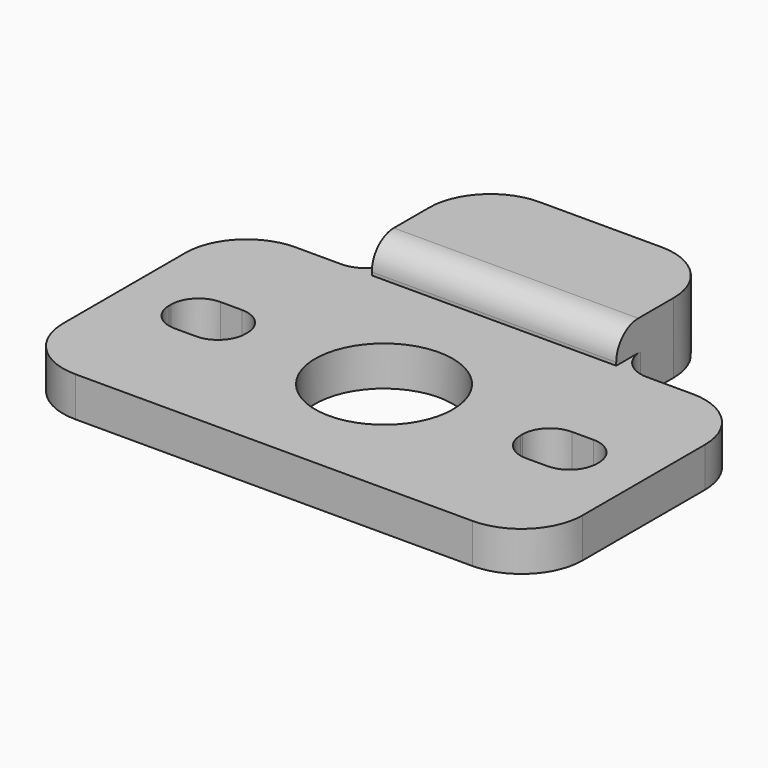
from build123d import *

# Parameters (mm, degrees)
F0_W     = 5
F0_H     = 3.75
F0_R     = 4.5
F1_DEPTH = 2.6
F2_W     = 16
F2_H     = 8.7
F3_DEPTH = 2
F4_R     = 4
F5_R     = 1.8
F6_R     = 2


with BuildPart() as f1:
    # F0 (on Top) → F1 (new body)
    with BuildSketch(Plane.XY):
        Polygon((17, -9), (17, 9), (8, 9), (8, 17.7), (-8, 17.7), (-8, 9), (-17, 9), (-17, -9), align=None)
        with Locations((-11.5, 0)):
            Rectangle(F0_W, F0_H, mode=Mode.SUBTRACT)
        Circle(F0_R, mode=Mode.SUBTRACT)
        with Locations((11.5, 0)):
            Rectangle(F0_W, F0_H, mode=Mode.SUBTRACT)
    extrude(amount=F1_DEPTH)

    # F2 (on face) → F3 (join)
    with BuildSketch(Plane.XY.offset(2.6)):
        with Locations((0, 13.35)):
            Rectangle(F2_W, F2_H)
    extrude(amount=F3_DEPTH)

    # F4
    f4_edges = [f1.edges().sort_by_distance(p)[0] for p in [
        (17, 9, 1.3),
        (17, -9, 1.3),
        (-17, 9, 1.3),
        (-17, -9, 1.3),
        (8, 17.7, 2.3),
        (-8, 17.7, 2.3),
    ]]
    fillet(f4_edges, radius=F4_R)

    # F5
    f5_edges = [f1.edges().sort_by_distance(p)[0] for p in [
        (0, 9, 4.6),
        (-14, 1.875, 1.3),
        (-14, -1.875, 1.3),
        (-9, 1.875, 1.3),
        (-9, -1.875, 1.3),
        (14, 1.875, 1.3),
        (9, 1.875, 1.3),
        (9, -1.875, 1.3),
        (14, -1.875, 1.3),
    ]]
    fillet(f5_edges, radius=F5_R)

    # F6
    f6_edges = [f1.edges().sort_by_distance(p)[0] for p in [
        (8, 9, 1.3),
        (-8, 9, 1.3),
    ]]
    fillet(f6_edges, radius=F6_R)


solid = f1.part
